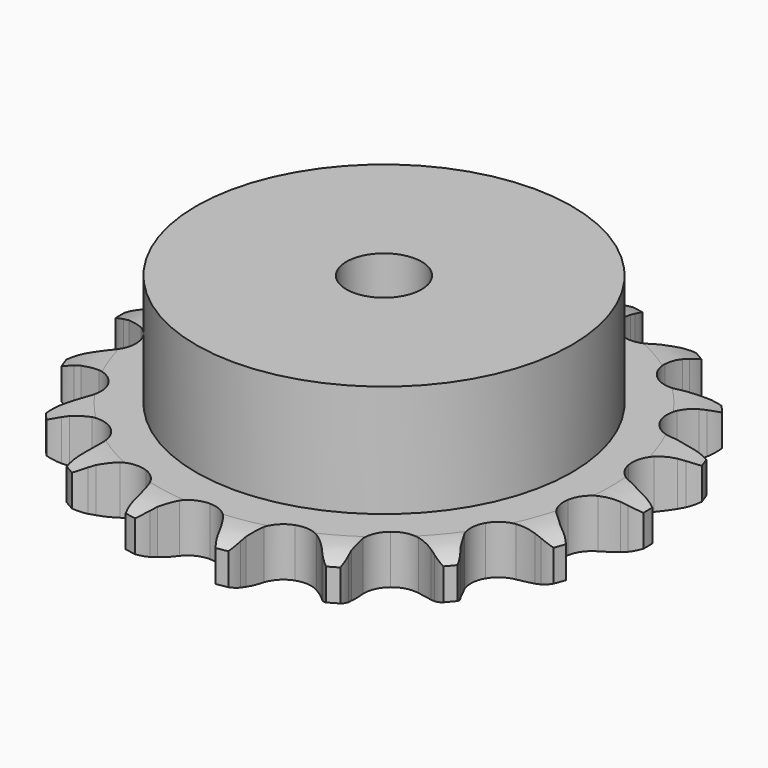
from build123d import *

# Parameters (mm, degrees)
PAD_DEPTH         = 9.1
SKETCH001_R       = 35
PAD001_DEPTH      = 30
SKETCH002_R       = 7
POCKET_DEPTH      = 0.001
POCKET_DEPTH_BACK = -30.001


with BuildPart() as part:
    # Sprocket → Pad (new body)
    with BuildSketch(Plane.XY):
        with BuildLine():
            ThreePointArc((-8.789023, 49.845028), (-7.33541, 48.372265), (-6.285014, 46.589377))
            Line((-6.285014, 46.589377), (-5.800158, 45.47132))
            ThreePointArc((-5.800158, 45.47132), (-5.013399, 43.938261), (-4.034642, 42.520059))
            ThreePointArc((-4.034642, 42.520059), (-2.241305, 41.080754), (0, 40.566741))
            ThreePointArc((0, 40.566741), (2.241305, 41.080754), (4.034642, 42.520059))
            ThreePointArc((4.034642, 42.520059), (5.013399, 43.938261), (5.800158, 45.47132))
            Line((5.800158, 45.47132), (6.285014, 46.589377))
            ThreePointArc((6.285014, 46.589377), (7.33541, 48.372265), (8.789023, 49.845028))
            ThreePointArc((8.789023, 49.845028), (9.651258, 47.963919), (10.028524, 45.929296))
            Line((10.028524, 45.929296), (10.101742, 44.712835))
            ThreePointArc((10.101742, 44.712835), (10.316716, 43.003143), (10.751394, 41.335715))
            ThreePointArc((10.751394, 41.335715), (11.944308, 39.369853), (13.874642, 38.120267))
            ThreePointArc((13.874642, 38.120267), (16.156583, 37.83671), (18.33404, 38.575857))
            Line((18.33404, 38.575857), (21.002473, 40.745293))
            ThreePointArc((21.002473, 40.745293), (21.411319, 41.197317), (21.840487, 41.630093))
            ThreePointArc((21.840487, 41.630093), (23.43732, 42.946202), (25.306984, 43.832982))
            ThreePointArc((25.306984, 43.832982), (25.473842, 41.770416), (25.132474, 39.729463))
            Line((25.132474, 39.729463), (24.785223, 38.561322))
            ThreePointArc((24.785223, 38.561322), (24.402483, 36.881211), (24.240652, 35.165673))
            ThreePointArc((24.240652, 35.165673), (24.689261, 32.910367), (26.075798, 31.075926))
            ThreePointArc((26.075798, 31.075926), (28.123139, 30.029001), (30.422082, 29.978837))
            Line((30.422082, 29.978837), (33.67158, 31.104783))
            ThreePointArc((33.67158, 31.104783), (34.21037, 31.389712), (34.761675, 31.649604))
            ThreePointArc((34.761675, 31.649604), (36.712343, 32.340194), (38.772549, 32.534031))
            ThreePointArc((38.772549, 32.534031), (38.223905, 30.538784), (37.205077, 28.737671))
            Line((37.205077, 28.737671), (36.479239, 27.758744))
            ThreePointArc((36.479239, 27.758744), (35.54495, 26.310861), (34.806131, 24.754132))
            ThreePointArc((34.806131, 24.754132), (34.456324, 22.481404), (35.131828, 20.28337))
            ThreePointArc((35.131828, 20.28337), (36.697629, 18.59935), (38.840773, 17.765927))
            Line((38.840773, 17.765927), (42.279397, 17.712576))
            ThreePointArc((42.279397, 17.712576), (42.883147, 17.796045), (43.490091, 17.851707))
            ThreePointArc((43.490091, 17.851707), (45.559316, 17.833481), (47.561572, 17.310997))
            ThreePointArc((47.561572, 17.310997), (46.363601, 15.623725), (44.790199, 14.279691))
            Line((44.790199, 14.279691), (43.773322, 13.608052))
            ThreePointArc((43.773322, 13.608052), (42.400172, 12.567033), (41.173476, 11.356878))
            ThreePointArc((41.173476, 11.356878), (40.067447, 9.340853), (39.950441, 7.044341))
            ThreePointArc((39.950441, 7.044341), (40.845844, 4.926344), (42.574692, 3.410184))
            Line((42.574692, 3.410184), (45.787695, 2.183972))
            ThreePointArc((45.787695, 2.183972), (46.383582, 2.055912), (46.972961, 1.90063))
            ThreePointArc((46.972961, 1.90063), (48.911162, 1.175787), (50.613968, 0))
            ThreePointArc((50.613968, 0), (48.911162, -1.175787), (46.972961, -1.90063))
            Line((46.972961, -1.90063), (45.787695, -2.183972))
            ThreePointArc((45.787695, -2.183972), (44.141307, -2.692564), (42.574692, -3.410184))
            ThreePointArc((42.574692, -3.410184), (40.845844, -4.926344), (39.950441, -7.044341))
            ThreePointArc((39.950441, -7.044341), (40.067447, -9.340853), (41.173476, -11.356878))
            Line((41.173476, -11.356878), (43.773322, -13.608052))
            ThreePointArc((43.773322, -13.608052), (44.289473, -13.932194), (44.790199, -14.279691))
            ThreePointArc((44.790199, -14.279691), (46.363601, -15.623725), (47.561572, -17.310997))
            ThreePointArc((47.561572, -17.310997), (45.559316, -17.833481), (43.490091, -17.851707))
            Line((43.490091, -17.851707), (42.279397, -17.712576))
            ThreePointArc((42.279397, -17.712576), (40.55835, -17.627399), (38.840773, -17.765927))
            ThreePointArc((38.840773, -17.765927), (36.697629, -18.59935), (35.131828, -20.28337))
            ThreePointArc((35.131828, -20.28337), (34.456324, -22.481404), (34.806131, -24.754132))
            Line((34.806131, -24.754132), (36.479239, -27.758744))
            ThreePointArc((36.479239, -27.758744), (36.853401, -28.239872), (37.205077, -28.737671))
            ThreePointArc((37.205077, -28.737671), (38.223905, -30.538784), (38.772549, -32.534031))
            ThreePointArc((38.772549, -32.534031), (36.712343, -32.340194), (34.761675, -31.649604))
            Line((34.761675, -31.649604), (33.67158, -31.104783))
            ThreePointArc((33.67158, -31.104783), (32.083456, -30.436109), (30.422082, -29.978837))
            ThreePointArc((30.422082, -29.978837), (28.123139, -30.029001), (26.075798, -31.075926))
            ThreePointArc((26.075798, -31.075926), (24.689261, -32.910367), (24.240652, -35.165673))
            Line((24.240652, -35.165673), (24.785223, -38.561322))
            ThreePointArc((24.785223, -38.561322), (24.972264, -39.141404), (25.132474, -39.729463))
            ThreePointArc((25.132474, -39.729463), (25.473842, -41.770416), (25.306984, -43.832982))
            ThreePointArc((25.306984, -43.832982), (23.43732, -42.946202), (21.840487, -41.630093))
            Line((21.840487, -41.630093), (21.002473, -40.745293))
            ThreePointArc((21.002473, -40.745293), (19.738825, -39.573776), (18.33404, -38.575857))
            ThreePointArc((18.33404, -38.575857), (16.156583, -37.83671), (13.874642, -38.120267))
            ThreePointArc((13.874642, -38.120267), (11.944308, -39.369853), (10.751394, -41.335715))
            Line((10.751394, -41.335715), (10.101742, -44.712835))
            ThreePointArc((10.101742, -44.712835), (10.079103, -45.321906), (10.028524, -45.929296))
            ThreePointArc((10.028524, -45.929296), (9.651258, -47.963919), (8.789023, -49.845028))
            ThreePointArc((8.789023, -49.845028), (7.33541, -48.372265), (6.285014, -46.589377))
            Line((6.285014, -46.589377), (5.800158, -45.47132))
            ThreePointArc((5.800158, -45.47132), (5.013399, -43.938261), (4.034642, -42.520059))
            ThreePointArc((4.034642, -42.520059), (2.241305, -41.080754), (0, -40.566741))
            ThreePointArc((0, -40.566741), (-2.241305, -41.080754), (-4.034642, -42.520059))
            Line((-4.034642, -42.520059), (-5.800158, -45.47132))
            ThreePointArc((-5.800158, -45.47132), (-6.029746, -46.035917), (-6.285014, -46.589377))
            ThreePointArc((-6.285014, -46.589377), (-7.33541, -48.372265), (-8.789023, -49.845028))
            ThreePointArc((-8.789023, -49.845028), (-9.651258, -47.963919), (-10.028524, -45.929296))
            Line((-10.028524, -45.929296), (-10.101742, -44.712835))
            ThreePointArc((-10.101742, -44.712835), (-10.316716, -43.003143), (-10.751394, -41.335715))
            ThreePointArc((-10.751394, -41.335715), (-11.944308, -39.369853), (-13.874642, -38.120267))
            ThreePointArc((-13.874642, -38.120267), (-16.156583, -37.83671), (-18.33404, -38.575857))
            Line((-18.33404, -38.575857), (-21.002473, -40.745293))
            ThreePointArc((-21.002473, -40.745293), (-21.411319, -41.197317), (-21.840487, -41.630093))
            ThreePointArc((-21.840487, -41.630093), (-23.43732, -42.946202), (-25.306984, -43.832982))
            ThreePointArc((-25.306984, -43.832982), (-25.473842, -41.770416), (-25.132474, -39.729463))
            Line((-25.132474, -39.729463), (-24.785223, -38.561322))
            ThreePointArc((-24.785223, -38.561322), (-24.402483, -36.881211), (-24.240652, -35.165673))
            ThreePointArc((-24.240652, -35.165673), (-24.689261, -32.910367), (-26.075798, -31.075926))
            ThreePointArc((-26.075798, -31.075926), (-28.123139, -30.029001), (-30.422082, -29.978837))
            Line((-30.422082, -29.978837), (-33.67158, -31.104783))
            ThreePointArc((-33.67158, -31.104783), (-34.21037, -31.389712), (-34.761675, -31.649604))
            ThreePointArc((-34.761675, -31.649604), (-36.712343, -32.340194), (-38.772549, -32.534031))
            ThreePointArc((-38.772549, -32.534031), (-38.223905, -30.538784), (-37.205077, -28.737671))
            Line((-37.205077, -28.737671), (-36.479239, -27.758744))
            ThreePointArc((-36.479239, -27.758744), (-35.54495, -26.310861), (-34.806131, -24.754132))
            ThreePointArc((-34.806131, -24.754132), (-34.456324, -22.481404), (-35.131828, -20.28337))
            ThreePointArc((-35.131828, -20.28337), (-36.697629, -18.59935), (-38.840773, -17.765927))
            Line((-38.840773, -17.765927), (-42.279397, -17.712576))
            ThreePointArc((-42.279397, -17.712576), (-42.883147, -17.796045), (-43.490091, -17.851707))
            ThreePointArc((-43.490091, -17.851707), (-45.559316, -17.833481), (-47.561572, -17.310997))
            ThreePointArc((-47.561572, -17.310997), (-46.363601, -15.623725), (-44.790199, -14.279691))
            Line((-44.790199, -14.279691), (-43.773322, -13.608052))
            ThreePointArc((-43.773322, -13.608052), (-42.400172, -12.567033), (-41.173476, -11.356878))
            ThreePointArc((-41.173476, -11.356878), (-40.067447, -9.340853), (-39.950441, -7.044341))
            ThreePointArc((-39.950441, -7.044341), (-40.845844, -4.926344), (-42.574692, -3.410184))
            Line((-42.574692, -3.410184), (-45.787695, -2.183972))
            ThreePointArc((-45.787695, -2.183972), (-46.383582, -2.055912), (-46.972961, -1.90063))
            ThreePointArc((-46.972961, -1.90063), (-48.911162, -1.175787), (-50.613968, 0))
            ThreePointArc((-50.613968, 0), (-48.911162, 1.175787), (-46.972961, 1.90063))
            Line((-46.972961, 1.90063), (-45.787695, 2.183972))
            ThreePointArc((-45.787695, 2.183972), (-44.141307, 2.692564), (-42.574692, 3.410184))
            ThreePointArc((-42.574692, 3.410184), (-40.845844, 4.926344), (-39.950441, 7.044341))
            ThreePointArc((-39.950441, 7.044341), (-40.067447, 9.340853), (-41.173476, 11.356878))
            Line((-41.173476, 11.356878), (-43.773322, 13.608052))
            ThreePointArc((-43.773322, 13.608052), (-44.289473, 13.932194), (-44.790199, 14.279691))
            ThreePointArc((-44.790199, 14.279691), (-46.363601, 15.623725), (-47.561572, 17.310997))
            ThreePointArc((-47.561572, 17.310997), (-45.559316, 17.833481), (-43.490091, 17.851707))
            Line((-43.490091, 17.851707), (-42.279397, 17.712576))
            ThreePointArc((-42.279397, 17.712576), (-40.55835, 17.627399), (-38.840773, 17.765927))
            ThreePointArc((-38.840773, 17.765927), (-36.697629, 18.59935), (-35.131828, 20.28337))
            ThreePointArc((-35.131828, 20.28337), (-34.456324, 22.481404), (-34.806131, 24.754132))
            Line((-34.806131, 24.754132), (-36.479239, 27.758744))
            ThreePointArc((-36.479239, 27.758744), (-36.853401, 28.239872), (-37.205077, 28.737671))
            ThreePointArc((-37.205077, 28.737671), (-38.223905, 30.538784), (-38.772549, 32.534031))
            ThreePointArc((-38.772549, 32.534031), (-36.712343, 32.340194), (-34.761675, 31.649604))
            Line((-34.761675, 31.649604), (-33.67158, 31.104783))
            ThreePointArc((-33.67158, 31.104783), (-32.083456, 30.436109), (-30.422082, 29.978837))
            ThreePointArc((-30.422082, 29.978837), (-28.123139, 30.029001), (-26.075798, 31.075926))
            ThreePointArc((-26.075798, 31.075926), (-24.689261, 32.910367), (-24.240652, 35.165673))
            Line((-24.240652, 35.165673), (-24.785223, 38.561322))
            ThreePointArc((-24.785223, 38.561322), (-24.972264, 39.141404), (-25.132474, 39.729463))
            ThreePointArc((-25.132474, 39.729463), (-25.473842, 41.770416), (-25.306984, 43.832982))
            ThreePointArc((-25.306984, 43.832982), (-23.43732, 42.946202), (-21.840487, 41.630093))
            Line((-21.840487, 41.630093), (-21.002473, 40.745293))
            ThreePointArc((-21.002473, 40.745293), (-19.738825, 39.573776), (-18.33404, 38.575857))
            ThreePointArc((-18.33404, 38.575857), (-16.156583, 37.83671), (-13.874642, 38.120267))
            ThreePointArc((-13.874642, 38.120267), (-11.944308, 39.369853), (-10.751394, 41.335715))
            Line((-10.751394, 41.335715), (-10.101742, 44.712835))
            ThreePointArc((-10.101742, 44.712835), (-10.079103, 45.321906), (-10.028524, 45.929296))
            ThreePointArc((-10.028524, 45.929296), (-9.651258, 47.963919), (-8.789023, 49.845028))
        make_face()
    extrude(amount=PAD_DEPTH)

    # Sketch → Groove (revolve, cut)
    with BuildSketch(Plane.XZ):
        with BuildLine():
            Line((42.175762, 0), (49.15, 0))
            Line((56.124238, 0), (49.15, 0))
            Line((56.124238, 9.1), (56.124238, 0))
            Line((49.15, 9.1), (56.124238, 9.1))
            Line((42.175762, 9.1), (49.15, 9.1))
            ThreePointArc((49.15, 7.5), (45.75347, 8.694871), (42.175762, 9.1))
            Line((49.15, 1.6), (49.15, 7.5))
            ThreePointArc((42.175762, 0), (45.75347, 0.405129), (49.15, 1.6))
        make_face()
    revolve(axis=Axis((0, 0, 0), (0, 0, 1)), mode=Mode.SUBTRACT)

    # Sketch001 → Pad001 (join)
    with BuildSketch(Plane.XY):
        Circle(SKETCH001_R)
    extrude(amount=PAD001_DEPTH)

    # Sketch002 → Pocket (cut, two sides)
    with BuildSketch(Plane.XY) as pocket_sk:
        Circle(SKETCH002_R)
    extrude(amount=-POCKET_DEPTH, mode=Mode.SUBTRACT)
    extrude(pocket_sk.sketch, amount=-POCKET_DEPTH_BACK, mode=Mode.SUBTRACT)


solid = part.part
